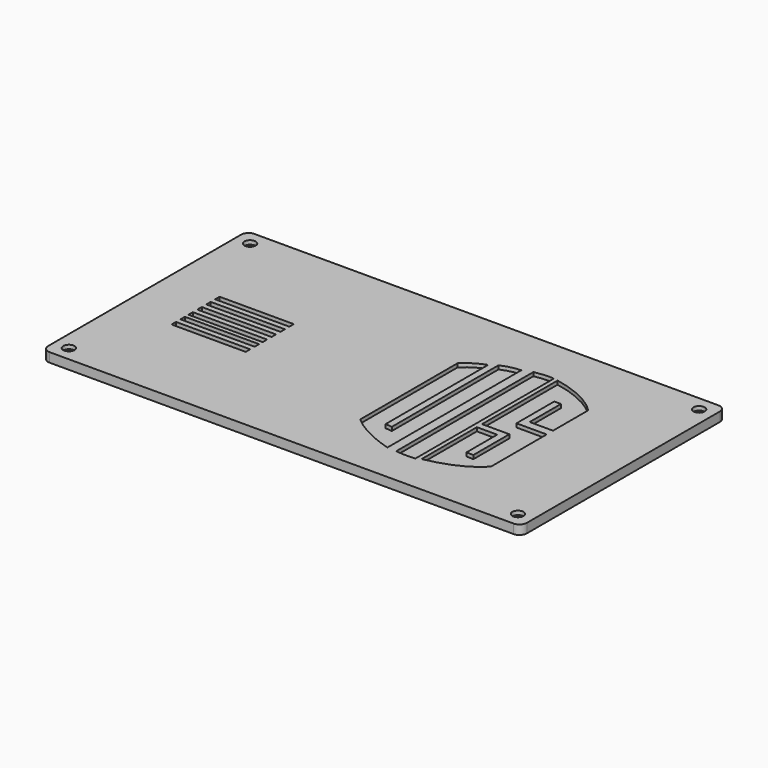
from build123d import *

# Parameters (mm, degrees)
PAD012_DEPTH     = 5
SKETCH028_W      = 40
SKETCH028_H      = 3
POCKET005_DEPTH  = 5
POCKET007_DEPTH  = 2
HOLE_D           = 3.4
HOLE_DEPTH       = 25
HOLE_CBORE_D     = 6.1
HOLE_CBORE_DEPTH = 2.1


with BuildPart() as part:
    # Sketch017 → Pad012 (new body)
    with BuildSketch(Plane.XY):
        with BuildLine():
            Line((-125.019865, 68.987077), (125.0523, 68.987077))
            ThreePointArc((129.0523, 64.987077), (127.880727, 67.815504), (125.0523, 68.987077))
            Line((129.0523, 64.987077), (129.0523, -65.046829))
            ThreePointArc((125.0523, -69.046829), (127.880727, -67.875256), (129.0523, -65.046829))
            Line((125.0523, -69.046829), (-125.019865, -69.046829))
            ThreePointArc((-129.019865, -65.046829), (-127.848292, -67.875256), (-125.019865, -69.046829))
            Line((-129.019865, -65.046829), (-129.019865, 64.987077))
            ThreePointArc((-125.019865, 68.987077), (-127.848292, 67.815504), (-129.019865, 64.987077))
        make_face()
    extrude(amount=PAD012_DEPTH)

    # Sketch028 (on Face10 of Pad012) → Pocket005 (cut)
    with BuildSketch(Plane.XY.offset(5)):
        with Locations((-80.731997, 13.615229)):
            Rectangle(SKETCH028_W, SKETCH028_H)
        with Locations((-80.731997, 7.615229)):
            Rectangle(SKETCH028_W, SKETCH028_H)
        with Locations((-80.731997, 1.615229)):
            Rectangle(SKETCH028_W, SKETCH028_H)
        with Locations((-80.731997, -4.384771)):
            Rectangle(SKETCH028_W, SKETCH028_H)
        with Locations((-80.731997, -9.76974)):
            Rectangle(SKETCH028_W, SKETCH028_H)
        with Locations((-80.731997, -15.76974)):
            Rectangle(SKETCH028_W, SKETCH028_H)
    extrude(amount=-POCKET005_DEPTH, mode=Mode.SUBTRACT)

    # Sketch030 (on Face5 of Pocket005) → Pocket007 (cut)
    with BuildSketch(Plane.XY.offset(5)):
        with BuildLine():
            add(Edge.make_bspline(
                [(15.3717, 30.4705), (20.304277, 35.132774), (26.3615, 37.1956)],
                knots=[0, 0, 0, 1, 1, 1], degree=2))
            Line((26.3615, 37.1956), (26.3615, -31.859221))
            Line((26.3615, -31.859221), (29.97, -32.187271))
            Line((29.97, -32.187271), (29.97, 39.656))
            add(Edge.make_bspline(
                [(29.97, 39.656), (35.044575, 41.913307), (40.3036, 42.1163)],
                knots=[0, 0, 0, 1, 1, 1], degree=2))
            Line((40.3036, 42.1163), (40.3036, -48.0978))
            add(Edge.make_bspline(
                [(15.3717, -35.3038), (24.402502, -43.259792), (40.3036, -48.0978)],
                knots=[0, 0, 0, 1, 1, 1], degree=2))
            Line((15.3717, -35.3038), (15.3717, 30.4705))
        make_face()
        with BuildLine():
            add(Edge.make_bspline(
                [(45.3002, 44.0847), (51.3415, 45.0886), (55.7798, 44.794849)],
                knots=[0, 0, 0, 1, 1, 1], degree=2))
            Line((45.3002, 44.0847), (45.3002, -48.3978))
            add(Edge.make_bspline(
                [(45.3002, -48.3978), (50.487595, -49.138817), (55.7798, -48.5358)],
                knots=[0, 0, 0, 1, 1, 1], degree=2))
            Line((55.7798, -48.5358), (55.7798, 44.794849))
        make_face()
        with BuildLine():
            Line((58.0863, 44.3344), (58.0863, -6.569482))
            Line((58.0863, -6.569482), (72.830238, -6.569482))
            Line((72.830238, -6.569482), (72.830238, -30.86281))
            Line((72.830238, -30.86281), (69.074577, -30.715408))
            Line((69.074577, -30.715408), (69.074577, -10.083365))
            Line((69.074577, -10.083365), (58.1125, -10.083365))
            Line((58.1125, -10.083365), (58.1125, -47.3498))
            add(Edge.make_bspline(
                [(58.1125, -47.3498), (76.588104, -43.74934), (85.2152, -34.4005)],
                knots=[0, 0, 0, 1, 1, 1], degree=2))
            Line((85.2152, -34.4005), (85.2152, 3.085874))
            Line((85.2152, 3.085874), (68.937401, 3.085874))
            Line((68.937401, 3.085874), (68.937401, 28.534903))
            Line((68.937401, 28.534903), (69.012573, 28.534903))
            Line((69.012573, 28.534903), (72.55024, 28.534903))
            Line((72.55024, 28.534903), (72.55024, 7.45628))
            Line((72.55024, 7.45628), (85.1532, 7.45628))
            Line((85.1532, 7.45628), (85.1532, 31.1882))
            add(Edge.make_bspline(
                [(58.0863, 44.3344), (75.314171, 40.982338), (85.1532, 31.1882)],
                knots=[0, 0, 0, 1, 1, 1], degree=2))
        make_face()
    extrude(amount=-POCKET007_DEPTH, mode=Mode.SUBTRACT)

    # Hole
    with Locations(Plane.XY.offset(5)):
        with Locations((121.0523, 60.987077), (-121.019865, 60.987077), (-121.019865, -61.046829), (121.0523, -61.046829)):
            CounterBoreHole(HOLE_D / 2, HOLE_CBORE_D / 2, HOLE_CBORE_DEPTH, depth=HOLE_DEPTH)


with BuildPart() as part_1:
    # Body003 placement: moved
    add(part.part.moved(Location((0, 0, 110))))


solid = part_1.part
